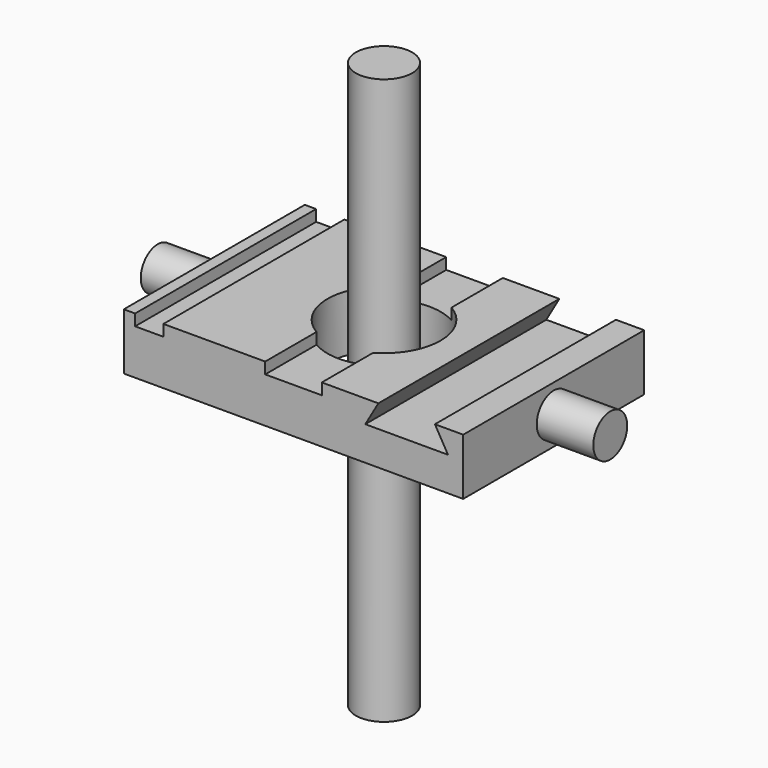
from build123d import *

# Parameters (mm, degrees)
F0_W      = 76.2
F0_H      = 50.8
F0_R      = 12.7
F1_DEPTH  = 12.7
F2_W      = 6.35
F2_H      = 50.8
F3_DEPTH  = 2.54
F5_DEPTH  = 50.801
F6_R      = 4.7625
F7_DEPTH  = 12.7
F8_R      = 6.3247937965
F9_DEPTH  = 63.5
F10_R     = 4.7625
F11_DEPTH = 12.7


with BuildPart() as f1:
    # F0 (on Top) → F1 (new body)
    with BuildSketch(Plane.XY):
        Rectangle(F0_W, F0_H)
        Circle(F0_R, mode=Mode.SUBTRACT)
    extrude(amount=F1_DEPTH)

    # F2 (on face) → F3 (cut)
    with BuildSketch(Plane.XY.offset(12.7)):
        with Locations((-32.385, 0)):
            Rectangle(F2_W, F2_H)
        with BuildLine():
            Line((6.35, 25.4), (-6.35, 25.4))
            Line((-6.35, 25.4), (-6.35, 10.9985226281))
            ThreePointArc((-6.35, 10.9985226281), (0, 12.7), (6.35, 10.9985226281))
            Line((6.35, 10.9985226281), (6.35, 25.4))
        make_face()
        with BuildLine():
            Line((-6.35, -10.9985226281), (-6.35, -25.4))
            Line((-6.35, -25.4), (6.35, -25.4))
            Line((6.35, -25.4), (6.35, -10.9985226281))
            ThreePointArc((6.35, -10.9985226281), (0, -12.7), (-6.35, -10.9985226281))
        make_face()
    extrude(amount=-F3_DEPTH, mode=Mode.SUBTRACT)

    # F4 (on face) → F5 (cut, through all)
    with BuildSketch(Plane.XZ.offset(25.4)):
        Polygon((31.75, 12.7), (19.05, 12.7), (16.1170606325, 7.62), (34.6829393675, 7.62), align=None)
    extrude(amount=-F5_DEPTH, mode=Mode.SUBTRACT)

    # F6 (on face) → F7 (join)
    with BuildSketch(Plane.YZ.offset(38.1)):
        with Locations((0, 6.35)):
            Circle(F6_R)
    extrude(amount=F7_DEPTH)

    # F10 (on face) → F11 (join)
    with BuildSketch(Plane(origin=(-38.1, 0, 0), x_dir=(0, -1, 0), z_dir=(-1, 0, 0))):
        with Locations((0, 6.35)):
            Circle(F10_R)
    extrude(amount=F11_DEPTH)


with BuildPart() as f9:
    # F8 (on Top) → F9 (new body, symmetric)
    with BuildSketch(Plane.XY):
        Circle(F8_R)
    extrude(amount=F9_DEPTH, both=True)


solid = Compound([f1.part, f9.part])
